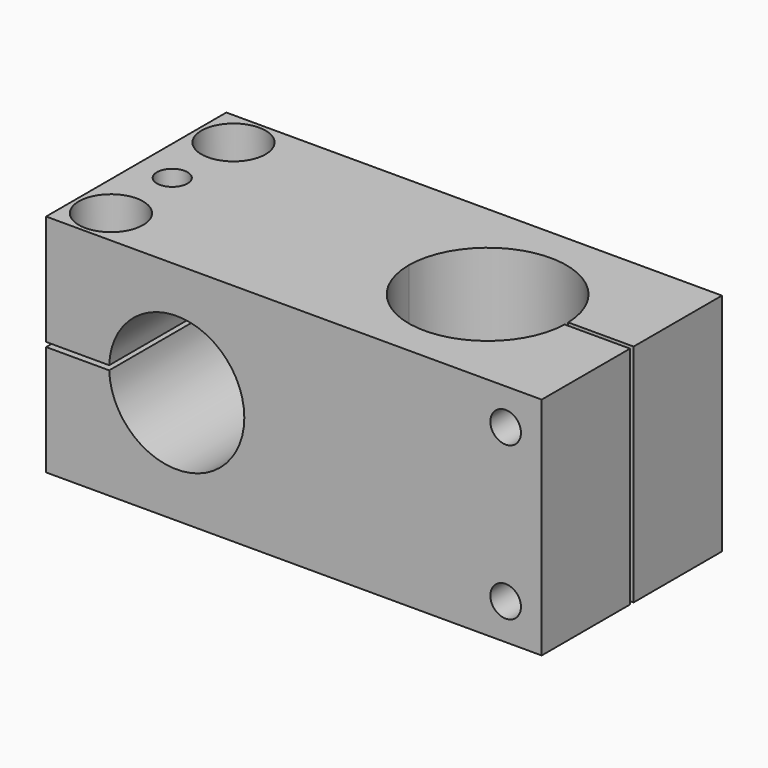
from build123d import *

# Parameters (mm, degrees)
F0_W                 = 110
F0_H                 = 50
F1_DEPTH             = 25
F6_D                 = 30
F7_D                 = 35
F8_D                 = 6.8
F8_DEPTH             = 28.25
F8_TIP               = 2.0429261047
F8_ON_F2_D           = 6.8
F8_ON_F2_DEPTH       = 28.25
F8_ON_F2_TIP         = 2.0429261047
F9_D                 = 8.4
F9_DEPTH             = 25
F9_CBORE_D           = 14.25
F9_CBORE_DEPTH       = 8
F9_TIP               = 2.5236145999
F9_ON_F5_D           = 8.4
F9_ON_F5_DEPTH       = 25
F9_ON_F5_CBORE_D     = 14.25
F9_ON_F5_CBORE_DEPTH = 8
F9_ON_F5_TIP         = 2.5236145999
F11_W                = 50
F11_H                = 1
F12_DEPTH            = 25
F10_W                = 1
F10_H                = 50
F13_DEPTH            = 25.0000003725
F14_D                = 6.8
F14_DEPTH            = 28.75
F14_TIP              = 2.0429261047
F14_ON_F3_D          = 6.8
F14_ON_F3_DEPTH      = 28.75
F14_ON_F3_TIP        = 2.0429261047


with BuildPart() as f1:
    # F0 (on Top) → F1 (new body, symmetric)
    with BuildSketch(Plane.XY):
        Rectangle(F0_W, F0_H)
    extrude(amount=F1_DEPTH, both=True)

    # F6 (through all)
    with Locations(Plane.XZ.offset(25)):
        with Locations((-26, 0)):
            Hole(F6_D / 2)

    # F7 (through all)
    with Locations(Plane.XY.offset(25)):
        with Locations((23, 0)):
            Hole(F7_D / 2)

    # F8
    with Locations(Plane(origin=(0, 0, -25), x_dir=(1, 0, 0), z_dir=(0, 0, -1))):
        with Locations((-47, -17), (-47, 17)):
            Hole(F8_D / 2, depth=F8_DEPTH)
            with Locations((0, 0, -(F8_DEPTH + F8_TIP / 2))):  # 118° drill point
                Cone(0, F8_D / 2, F8_TIP, mode=Mode.SUBTRACT)

    # F8 on F2
    with Locations(Plane.XZ.offset(25)):
        with Locations((47, 17), (47, -17)):
            Hole(F8_ON_F2_D / 2, depth=F8_ON_F2_DEPTH)
            with Locations((0, 0, -(F8_ON_F2_DEPTH + F8_ON_F2_TIP / 2))):  # 118° drill point
                Cone(0, F8_ON_F2_D / 2, F8_ON_F2_TIP, mode=Mode.SUBTRACT)

    # F9
    with Locations(Plane.XY.offset(25)):
        with Locations((-47, 17), (-47, -17)):
            CounterBoreHole(F9_D / 2, F9_CBORE_D / 2, F9_CBORE_DEPTH, depth=F9_DEPTH)
            with Locations((0, 0, -(F9_DEPTH + F9_TIP / 2))):  # 118° drill point
                Cone(0, F9_D / 2, F9_TIP, mode=Mode.SUBTRACT)

    # F9 on F5
    with Locations(Plane(origin=(0, 25, 0), x_dir=(-1, 0, 0), z_dir=(0, 1, 0))):
        with Locations((-47, 17), (-47, -17)):
            CounterBoreHole(F9_ON_F5_D / 2, F9_ON_F5_CBORE_D / 2, F9_ON_F5_CBORE_DEPTH, depth=F9_ON_F5_DEPTH)
            with Locations((0, 0, -(F9_ON_F5_DEPTH + F9_ON_F5_TIP / 2))):  # 118° drill point
                Cone(0, F9_ON_F5_D / 2, F9_ON_F5_TIP, mode=Mode.SUBTRACT)

    # F11 (on face) → F12 (cut)
    with BuildSketch(Plane(origin=(-55, 0, 0), x_dir=(0, -1, 0), z_dir=(-1, 0, 0))):
        Rectangle(F11_W, F11_H)
    extrude(amount=-F12_DEPTH, mode=Mode.SUBTRACT)

    # F10 (on face) → F13 (cut)
    with BuildSketch(Plane.YZ.offset(55)):
        Rectangle(F10_W, F10_H)
    extrude(amount=-F13_DEPTH, mode=Mode.SUBTRACT)

    # F14
    with Locations(Plane(origin=(0, 25, 0), x_dir=(-1, 0, 0), z_dir=(0, 1, 0))):
        with Locations((-47, 0)):
            Hole(F14_D / 2, depth=F14_DEPTH)
            with Locations((0, 0, -(F14_DEPTH + F14_TIP / 2))):  # 118° drill point
                Cone(0, F14_D / 2, F14_TIP, mode=Mode.SUBTRACT)

    # F14 on F3
    with Locations(Plane.XY.offset(25)):
        with Locations((-47, 0)):
            Hole(F14_ON_F3_D / 2, depth=F14_ON_F3_DEPTH)
            with Locations((0, 0, -(F14_ON_F3_DEPTH + F14_ON_F3_TIP / 2))):  # 118° drill point
                Cone(0, F14_ON_F3_D / 2, F14_ON_F3_TIP, mode=Mode.SUBTRACT)


solid = f1.part
